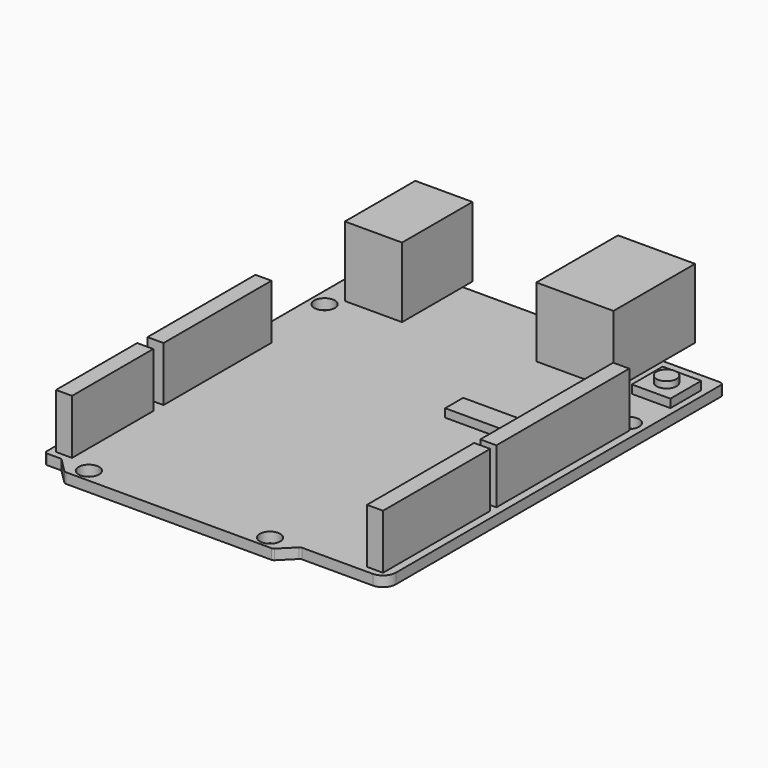
from build123d import *

# Parameters (mm, degrees)
F1_DEPTH  = 1.6
F2_W      = 12
F2_H      = 15.875
F3_DEPTH  = 10.82
F4_W      = 8.9
F4_H      = 13.7
F5_DEPTH  = 10.9
F6_R      = 1.6
F7_DEPTH  = 3
F8_W      = 2.5
F8_H      = 25.85
F9_DEPTH  = 8.5
F8_H_2    = 20.85
F8_H_3    = 21
F8_H_4    = 15.8
F10_W     = 6
F10_H     = 6
F11_DEPTH = 1.3
F12_R     = 1.55
F13_DEPTH = 1
F14_W     = 11.1
F14_H     = 3.5
F15_DEPTH = 1.3


with BuildPart() as f1:
    # F0 (on Top) → F1 (new body)
    with BuildSketch(Plane.XY):
        with BuildLine():
            Line((26.05, 32.875), (-26.05, 32.875))
            ThreePointArc((-26.05, 32.875), (-26.4035533906, 32.7285533906), (-26.55, 32.375))
            Line((-26.55, 32.375), (-26.55, -32.375))
            ThreePointArc((-26.55, -32.375), (-26.4035533906, -32.7285533906), (-26.05, -32.875))
            Line((-26.05, -32.875), (-23.9, -32.875))
            Line((-23.9, -32.875), (-21.6364466094, -35.1385533906))
            ThreePointArc((-21.6364466094, -35.1385533906), (-21.474234935, -35.2469397663), (-21.2828932188, -35.285))
            Line((-21.2828932188, -35.285), (10.7328932188, -35.285))
            ThreePointArc((10.7328932188, -35.285), (10.924234935, -35.2469397663), (11.0864466094, -35.1385533906))
            Line((11.0864466094, -35.1385533906), (13.2035533906, -33.0214466094))
            ThreePointArc((13.2035533906, -33.0214466094), (13.365765065, -32.9130602337), (13.5571067812, -32.875))
            Line((13.5571067812, -32.875), (24.55, -32.875))
            ThreePointArc((24.55, -32.875), (25.9642135624, -32.2892135624), (26.55, -30.875))
            Line((26.55, -30.875), (26.55, 32.375))
            ThreePointArc((26.55, 32.375), (26.4035533906, 32.7285533906), (26.05, 32.875))
        make_face()
    extrude(amount=F1_DEPTH)

    # F6 (on face) → F7 (cut)
    with BuildSketch(Plane.XY.offset(1.6)):
        with Locations((-19.35, -33.225)):
            Circle(F6_R)
        with Locations((8.85, -33.225)):
            Circle(F6_R)
        with Locations((24.05, 17.575)):
            Circle(F6_R)
        with Locations((-24.35, 18.875)):
            Circle(F6_R)
    extrude(amount=-F7_DEPTH, mode=Mode.SUBTRACT)


with BuildPart() as f3:
    # F2 (on face) → F3 (new body)
    with BuildSketch(Plane.XY.offset(1.6)):
        with Locations((11.15, 31.1375)):
            Rectangle(F2_W, F2_H)
    extrude(amount=F3_DEPTH)


with BuildPart() as f5:
    # F4 (on face) → F5 (new body)
    with BuildSketch(Plane.XY.offset(1.6)):
        with Locations((-18.5, 27.925)):
            Rectangle(F4_W, F4_H)
    extrude(amount=F5_DEPTH)


with BuildPart() as f9:
    # F8 (on face) → F9 (new body)
    with BuildSketch(Plane.XY.offset(1.6)):
        with Locations((24.1, 3.1)):
            Rectangle(F8_W, F8_H)
    extrude(amount=F9_DEPTH)


with BuildPart() as f9b:
    # F8 (on face) → F9, piece 2 (new body)
    with BuildSketch(Plane.XY.offset(1.6)):
        with Locations((24.1, -21.45)):
            Rectangle(F8_W, F8_H_2)
    extrude(amount=F9_DEPTH)


with BuildPart() as f9c:
    # F8 (on face) → F9, piece 3 (new body)
    with BuildSketch(Plane.XY.offset(1.6)):
        with Locations((-24.3, -3.575)):
            Rectangle(F8_W, F8_H_3)
    extrude(amount=F9_DEPTH)


with BuildPart() as f9d:
    # F8 (on face) → F9, piece 4 (new body)
    with BuildSketch(Plane.XY.offset(1.6)):
        with Locations((-24.3, -23.975)):
            Rectangle(F8_W, F8_H_4)
    extrude(amount=F9_DEPTH)


with BuildPart() as f11:
    # F10 (on face) → F11 (new body)
    with BuildSketch(Plane.XY.offset(1.6)):
        with Locations((22.55, 26.775)):
            Rectangle(F10_W, F10_H)
    extrude(amount=F11_DEPTH)


with BuildPart() as f13:
    # F12 (on face) → F13 (new body)
    with BuildSketch(Plane.XY.offset(2.9)):
        with Locations((22.55, 26.775)):
            Circle(F12_R)
    extrude(amount=F13_DEPTH)


with BuildPart() as f15:
    # F14 (on face) → F15 (new body)
    with BuildSketch(Plane.XY.offset(1.6)):
        with Locations((11.3, 6.465)):
            Rectangle(F14_W, F14_H)
    extrude(amount=F15_DEPTH)


solid = Compound([f1.part, f3.part, f5.part, f9.part, f9b.part, f9c.part, f9d.part, f11.part, f13.part, f15.part])
